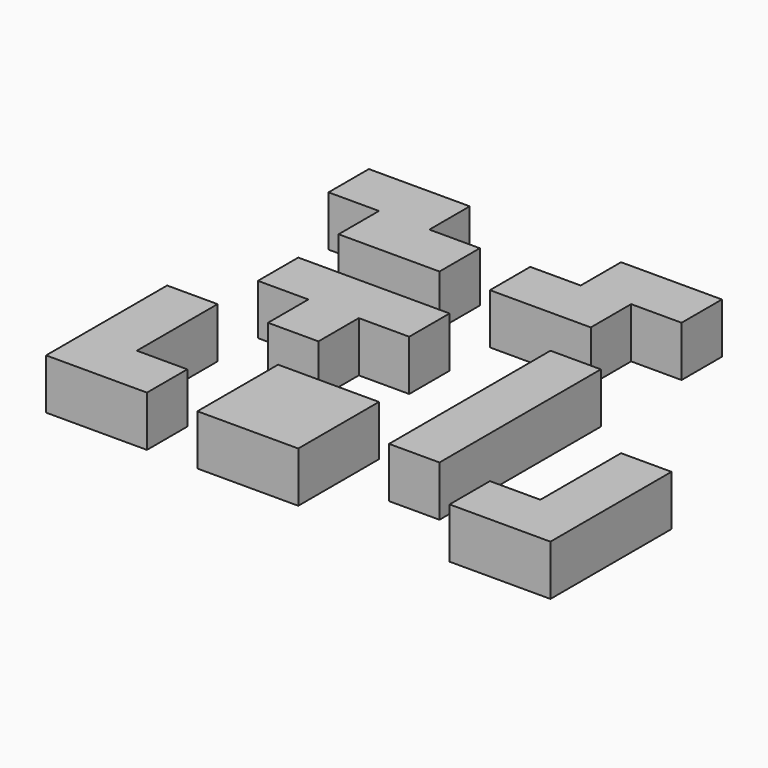
from build123d import *

# Parameters (mm, degrees)
BOX001_W     = 10
BOX001_H     = 10
BOX001_DEPTH = 10
BOX002_W     = 10
BOX002_H     = 10
BOX002_DEPTH = 10
BOX003_W     = 10
BOX003_H     = 10
BOX003_DEPTH = 10
BOX_W        = 10
BOX_H        = 10
BOX_DEPTH    = 10
BOX005_W     = 10
BOX005_H     = 10
BOX005_DEPTH = 10
BOX006_W     = 10
BOX006_H     = 10
BOX006_DEPTH = 10
BOX007_W     = 10
BOX007_H     = 10
BOX007_DEPTH = 10
BOX004_W     = 10
BOX004_H     = 10
BOX004_DEPTH = 10
BOX009_W     = 10
BOX009_H     = 10
BOX009_DEPTH = 10
BOX010_W     = 10
BOX010_H     = 10
BOX010_DEPTH = 10
BOX011_W     = 10
BOX011_H     = 10
BOX011_DEPTH = 10
BOX008_W     = 10
BOX008_H     = 10
BOX008_DEPTH = 10
BOX013_W     = 10
BOX013_H     = 10
BOX013_DEPTH = 10
BOX014_W     = 10
BOX014_H     = 10
BOX014_DEPTH = 10
BOX015_W     = 10
BOX015_H     = 10
BOX015_DEPTH = 10
BOX012_W     = 10
BOX012_H     = 10
BOX012_DEPTH = 10
BOX017_W     = 10
BOX017_H     = 10
BOX017_DEPTH = 10
BOX018_W     = 10
BOX018_H     = 10
BOX018_DEPTH = 10
BOX019_W     = 10
BOX019_H     = 10
BOX019_DEPTH = 10
BOX016_W     = 10
BOX016_H     = 10
BOX016_DEPTH = 10
BOX021_W     = 10
BOX021_H     = 10
BOX021_DEPTH = 10
BOX022_W     = 10
BOX022_H     = 10
BOX022_DEPTH = 10
BOX023_W     = 10
BOX023_H     = 10
BOX023_DEPTH = 10
BOX020_W     = 10
BOX020_H     = 10
BOX020_DEPTH = 10
BOX025_W     = 10
BOX025_H     = 10
BOX025_DEPTH = 10
BOX026_W     = 10
BOX026_H     = 10
BOX026_DEPTH = 10
BOX027_W     = 10
BOX027_H     = 10
BOX027_DEPTH = 10
BOX024_W     = 10
BOX024_H     = 10
BOX024_DEPTH = 10
BOX029_W     = 10
BOX029_H     = 10
BOX029_DEPTH = 10
BOX030_W     = 10
BOX030_H     = 10
BOX030_DEPTH = 10
BOX031_W     = 10
BOX031_H     = 10
BOX031_DEPTH = 10
BOX028_W     = 10
BOX028_H     = 10
BOX028_DEPTH = 10


with BuildPart() as cube001:
    # Box001 → Box001 (new body)
    with BuildSketch(Plane(origin=(0, -10, 0), x_dir=(1, 0, 0), z_dir=(0, 0, 1))):
        with Locations((5, 5)):
            Rectangle(BOX001_W, BOX001_H)
    extrude(amount=BOX001_DEPTH)


with BuildPart() as cube002:
    # Box002 → Box002 (new body)
    with BuildSketch(Plane(origin=(0, -20, 0), x_dir=(1, 0, 0), z_dir=(0, 0, 1))):
        with Locations((5, 5)):
            Rectangle(BOX002_W, BOX002_H)
    extrude(amount=BOX002_DEPTH)


with BuildPart() as cube003:
    # Box003 → Box003 (new body)
    with BuildSketch(Plane(origin=(0, -30, 0), x_dir=(1, 0, 0), z_dir=(0, 0, 1))):
        with Locations((5, 5)):
            Rectangle(BOX003_W, BOX003_H)
    extrude(amount=BOX003_DEPTH)


with BuildPart() as fusion:
    # Box → Box (new body)
    with BuildSketch(Plane.XY):
        with Locations((5, 5)):
            Rectangle(BOX_W, BOX_H)
    extrude(amount=BOX_DEPTH)

    # Fusion: union Cube001, Cube002, Cube003
    add(cube001.part)
    add(cube002.part)
    add(cube003.part)


with BuildPart() as cube005:
    # Box005 → Box005 (new body)
    with BuildSketch(Plane(origin=(-40, 0, 0), x_dir=(1, 0, 0), z_dir=(0, 0, 1))):
        with Locations((5, 5)):
            Rectangle(BOX005_W, BOX005_H)
    extrude(amount=BOX005_DEPTH)


with BuildPart() as cube006:
    # Box006 → Box006 (new body)
    with BuildSketch(Plane(origin=(-50, 0, 0), x_dir=(1, 0, 0), z_dir=(0, 0, 1))):
        with Locations((5, 5)):
            Rectangle(BOX006_W, BOX006_H)
    extrude(amount=BOX006_DEPTH)


with BuildPart() as cube007:
    # Box007 → Box007 (new body)
    with BuildSketch(Plane(origin=(-40, -10, 0), x_dir=(1, 0, 0), z_dir=(0, 0, 1))):
        with Locations((5, 5)):
            Rectangle(BOX007_W, BOX007_H)
    extrude(amount=BOX007_DEPTH)


with BuildPart() as fusion001:
    # Box004 → Box004 (new body)
    with BuildSketch(Plane(origin=(-30, 0, 0), x_dir=(1, 0, 0), z_dir=(0, 0, 1))):
        with Locations((5, 5)):
            Rectangle(BOX004_W, BOX004_H)
    extrude(amount=BOX004_DEPTH)

    # Fusion001: union Cube005, Cube006, Cube007
    add(cube005.part)
    add(cube006.part)
    add(cube007.part)


with BuildPart() as cube009:
    # Box009 → Box009 (new body)
    with BuildSketch(Plane(origin=(-30, -30, 0), x_dir=(1, 0, 0), z_dir=(0, 0, 1))):
        with Locations((5, 5)):
            Rectangle(BOX009_W, BOX009_H)
    extrude(amount=BOX009_DEPTH)


with BuildPart() as cube010:
    # Box010 → Box010 (new body)
    with BuildSketch(Plane(origin=(-30, -40, 0), x_dir=(1, 0, 0), z_dir=(0, 0, 1))):
        with Locations((5, 5)):
            Rectangle(BOX010_W, BOX010_H)
    extrude(amount=BOX010_DEPTH)


with BuildPart() as cube011:
    # Box011 → Box011 (new body)
    with BuildSketch(Plane(origin=(-20, -40, 0), x_dir=(1, 0, 0), z_dir=(0, 0, 1))):
        with Locations((5, 5)):
            Rectangle(BOX011_W, BOX011_H)
    extrude(amount=BOX011_DEPTH)


with BuildPart() as fusion002:
    # Box008 → Box008 (new body)
    with BuildSketch(Plane(origin=(-20, -30, 0), x_dir=(1, 0, 0), z_dir=(0, 0, 1))):
        with Locations((5, 5)):
            Rectangle(BOX008_W, BOX008_H)
    extrude(amount=BOX008_DEPTH)

    # Fusion002: union Cube009, Cube010, Cube011
    add(cube009.part)
    add(cube010.part)
    add(cube011.part)


with BuildPart() as cube013:
    # Box013 → Box013 (new body)
    with BuildSketch(Plane(origin=(-60, -30, 0), x_dir=(1, 0, 0), z_dir=(0, 0, 1))):
        with Locations((5, 5)):
            Rectangle(BOX013_W, BOX013_H)
    extrude(amount=BOX013_DEPTH)


with BuildPart() as cube014:
    # Box014 → Box014 (new body)
    with BuildSketch(Plane(origin=(-60, -20, 0), x_dir=(1, 0, 0), z_dir=(0, 0, 1))):
        with Locations((5, 5)):
            Rectangle(BOX014_W, BOX014_H)
    extrude(amount=BOX014_DEPTH)


with BuildPart() as cube015:
    # Box015 → Box015 (new body)
    with BuildSketch(Plane(origin=(-50, -40, 0), x_dir=(1, 0, 0), z_dir=(0, 0, 1))):
        with Locations((5, 5)):
            Rectangle(BOX015_W, BOX015_H)
    extrude(amount=BOX015_DEPTH)


with BuildPart() as fusion003:
    # Box012 → Box012 (new body)
    with BuildSketch(Plane(origin=(-60, -40, 0), x_dir=(1, 0, 0), z_dir=(0, 0, 1))):
        with Locations((5, 5)):
            Rectangle(BOX012_W, BOX012_H)
    extrude(amount=BOX012_DEPTH)

    # Fusion003: union Cube013, Cube014, Cube015
    add(cube013.part)
    add(cube014.part)
    add(cube015.part)


with BuildPart() as cube017:
    # Box017 → Box017 (new body)
    with BuildSketch(Plane(origin=(-60, -30, 0), x_dir=(1, 0, 0), z_dir=(0, 0, 1))):
        with Locations((5, 5)):
            Rectangle(BOX017_W, BOX017_H)
    extrude(amount=BOX017_DEPTH)


with BuildPart() as cube018:
    # Box018 → Box018 (new body)
    with BuildSketch(Plane(origin=(-60, -20, 0), x_dir=(1, 0, 0), z_dir=(0, 0, 1))):
        with Locations((5, 5)):
            Rectangle(BOX018_W, BOX018_H)
    extrude(amount=BOX018_DEPTH)


with BuildPart() as cube019:
    # Box019 → Box019 (new body)
    with BuildSketch(Plane(origin=(-50, -40, 0), x_dir=(1, 0, 0), z_dir=(0, 0, 1))):
        with Locations((5, 5)):
            Rectangle(BOX019_W, BOX019_H)
    extrude(amount=BOX019_DEPTH)


with BuildPart() as fusion004:
    # Box016 → Box016 (new body)
    with BuildSketch(Plane(origin=(-60, -40, 0), x_dir=(1, 0, 0), z_dir=(0, 0, 1))):
        with Locations((5, 5)):
            Rectangle(BOX016_W, BOX016_H)
    extrude(amount=BOX016_DEPTH)

    # Fusion004: union Cube017, Cube018, Cube019
    add(cube017.part)
    add(cube018.part)
    add(cube019.part)


with BuildPart() as cube021:
    # Box021 → Box021 (new body)
    with BuildSketch(Plane(origin=(30, -30, 0), x_dir=(1, 0, 0), z_dir=(0, 0, 1))):
        with Locations((5, 5)):
            Rectangle(BOX021_W, BOX021_H)
    extrude(amount=BOX021_DEPTH)


with BuildPart() as cube022:
    # Box022 → Box022 (new body)
    with BuildSketch(Plane(origin=(30, -20, 0), x_dir=(1, 0, 0), z_dir=(0, 0, 1))):
        with Locations((5, 5)):
            Rectangle(BOX022_W, BOX022_H)
    extrude(amount=BOX022_DEPTH)


with BuildPart() as cube023:
    # Box023 → Box023 (new body)
    with BuildSketch(Plane(origin=(20, -40, 0), x_dir=(1, 0, 0), z_dir=(0, 0, 1))):
        with Locations((5, 5)):
            Rectangle(BOX023_W, BOX023_H)
    extrude(amount=BOX023_DEPTH)


with BuildPart() as fusion005:
    # Box020 → Box020 (new body)
    with BuildSketch(Plane(origin=(30, -40, 0), x_dir=(1, 0, 0), z_dir=(0, 0, 1))):
        with Locations((5, 5)):
            Rectangle(BOX020_W, BOX020_H)
    extrude(amount=BOX020_DEPTH)

    # Fusion005: union Cube021, Cube022, Cube023
    add(cube021.part)
    add(cube022.part)
    add(cube023.part)


with BuildPart() as cube025:
    # Box025 → Box025 (new body)
    with BuildSketch(Plane(origin=(-10, 20, 0), x_dir=(1, 0, 0), z_dir=(0, 0, 1))):
        with Locations((5, 5)):
            Rectangle(BOX025_W, BOX025_H)
    extrude(amount=BOX025_DEPTH)


with BuildPart() as cube026:
    # Box026 → Box026 (new body)
    with BuildSketch(Plane(origin=(-10, 30, 0), x_dir=(1, 0, 0), z_dir=(0, 0, 1))):
        with Locations((5, 5)):
            Rectangle(BOX026_W, BOX026_H)
    extrude(amount=BOX026_DEPTH)


with BuildPart() as cube027:
    # Box027 → Box027 (new body)
    with BuildSketch(Plane(origin=(0, 30, 0), x_dir=(1, 0, 0), z_dir=(0, 0, 1))):
        with Locations((5, 5)):
            Rectangle(BOX027_W, BOX027_H)
    extrude(amount=BOX027_DEPTH)


with BuildPart() as fusion006:
    # Box024 → Box024 (new body)
    with BuildSketch(Plane(origin=(-20, 20, 0), x_dir=(1, 0, 0), z_dir=(0, 0, 1))):
        with Locations((5, 5)):
            Rectangle(BOX024_W, BOX024_H)
    extrude(amount=BOX024_DEPTH)

    # Fusion006: union Cube025, Cube026, Cube027
    add(cube025.part)
    add(cube026.part)
    add(cube027.part)


with BuildPart() as cube029:
    # Box029 → Box029 (new body)
    with BuildSketch(Plane(origin=(-50, 30, 0), x_dir=(1, 0, 0), z_dir=(0, 0, 1))):
        with Locations((5, 5)):
            Rectangle(BOX029_W, BOX029_H)
    extrude(amount=BOX029_DEPTH)


with BuildPart() as cube030:
    # Box030 → Box030 (new body)
    with BuildSketch(Plane(origin=(-50, 20, 0), x_dir=(1, 0, 0), z_dir=(0, 0, 1))):
        with Locations((5, 5)):
            Rectangle(BOX030_W, BOX030_H)
    extrude(amount=BOX030_DEPTH)


with BuildPart() as cube031:
    # Box031 → Box031 (new body)
    with BuildSketch(Plane(origin=(-40, 20, 0), x_dir=(1, 0, 0), z_dir=(0, 0, 1))):
        with Locations((5, 5)):
            Rectangle(BOX031_W, BOX031_H)
    extrude(amount=BOX031_DEPTH)


with BuildPart() as fusion007:
    # Box028 → Box028 (new body)
    with BuildSketch(Plane(origin=(-60, 30, 0), x_dir=(1, 0, 0), z_dir=(0, 0, 1))):
        with Locations((5, 5)):
            Rectangle(BOX028_W, BOX028_H)
    extrude(amount=BOX028_DEPTH)

    # Fusion007: union Cube029, Cube030, Cube031
    add(cube029.part)
    add(cube030.part)
    add(cube031.part)


solid = Compound([fusion.part, fusion001.part, fusion002.part, fusion003.part, fusion004.part, fusion005.part, fusion006.part, fusion007.part])
